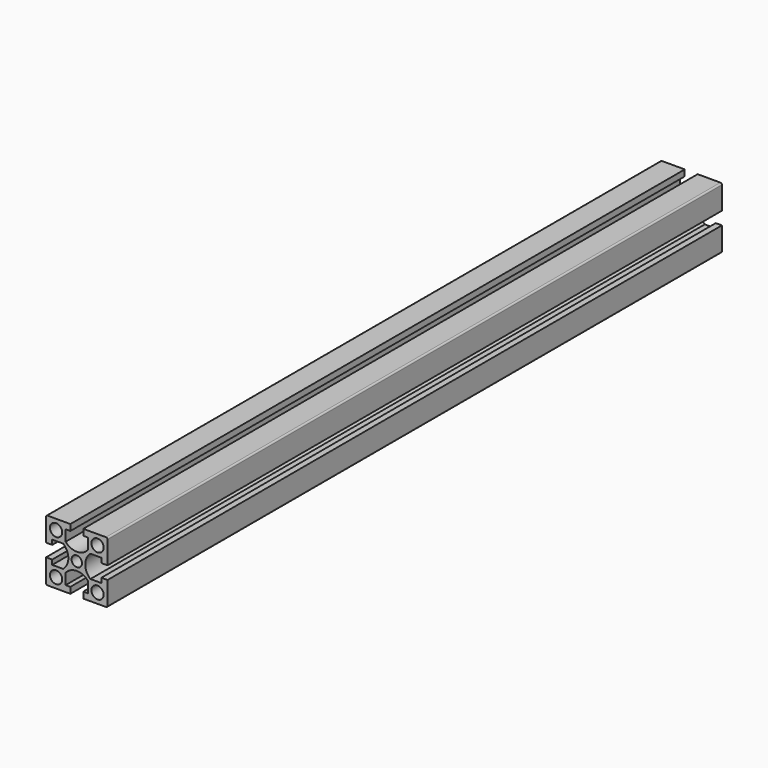
from build123d import *

# Parameters (mm, degrees)
F1_W          = 40
F1_H          = 40
F2_DEPTH      = 250
F3_R          = 4
F3_R_2        = 3.4
F4_DEPTH      = 250.001
F4_DEPTH_BACK = 250.001
F6_DEPTH      = 250.001
F6_DEPTH_BACK = 250.001
F7_R          = 1


with BuildPart() as f2:
    # F1 (on Front) → F2 (new body, symmetric)
    with BuildSketch(Plane.XZ):
        Rectangle(F1_W, F1_H)
    extrude(amount=F2_DEPTH, both=True)

    # F3 (on Front) → F4 (cut, two sides)
    with BuildSketch(Plane.XZ) as f4_sk:
        with Locations((-13.5, 13.5)):
            Circle(F3_R)
        with Locations((-13.5, -13.5)):
            Circle(F3_R)
        with Locations((13.5, -13.5)):
            Circle(F3_R)
        with Locations((13.5, 13.5)):
            Circle(F3_R)
        Circle(F3_R_2)
    extrude(amount=-F4_DEPTH, mode=Mode.SUBTRACT)
    extrude(f4_sk.sketch, amount=F4_DEPTH_BACK, mode=Mode.SUBTRACT)

    # F5 (on Front) → F6 (cut, two sides)
    with BuildSketch(Plane.XZ) as f6_sk:
        with BuildLine():
            Line((4.2, 20), (-4.2, 20))
            Line((-4.2, 20), (-4.2, 16))
            Line((-4.2, 16), (-7.25, 16))
            Line((-7.25, 16), (-7.25, 8.8609854211))
            ThreePointArc((-7.25, 8.8609854211), (0, 5.5), (7.25, 8.8609854211))
            Line((7.25, 8.8609854211), (7.25, 16))
            Line((7.25, 16), (4.2, 16))
            Line((4.2, 16), (4.2, 20))
        make_face()
        with BuildLine():
            Line((-16, 7.25), (-16, 4.2))
            Line((-16, 4.2), (-20, 4.2))
            Line((-20, 4.2), (-20, -4.2))
            Line((-20, -4.2), (-16, -4.2))
            Line((-16, -4.2), (-16, -7.25))
            Line((-16, -7.25), (-8.8609854211, -7.25))
            ThreePointArc((-8.8609854211, -7.25), (-5.5, 0), (-8.8609854211, 7.25))
            Line((-8.8609854211, 7.25), (-16, 7.25))
        make_face()
        with BuildLine():
            Line((-7.25, -16), (-4.2, -16))
            Line((-4.2, -16), (-4.2, -20))
            Line((-4.2, -20), (4.2, -20))
            Line((4.2, -20), (4.2, -16))
            Line((4.2, -16), (7.25, -16))
            Line((7.25, -16), (7.25, -8.8609854211))
            ThreePointArc((7.25, -8.8609854211), (0, -5.5), (-7.25, -8.8609854211))
            Line((-7.25, -8.8609854211), (-7.25, -16))
        make_face()
        with BuildLine():
            Line((16, -7.25), (16, -4.2))
            Line((16, -4.2), (20, -4.2))
            Line((20, -4.2), (20, 4.2))
            Line((20, 4.2), (16, 4.2))
            Line((16, 4.2), (16, 7.25))
            Line((16, 7.25), (8.8609854211, 7.25))
            ThreePointArc((8.8609854211, 7.25), (5.5, 0), (8.8609854211, -7.25))
            Line((8.8609854211, -7.25), (16, -7.25))
        make_face()
    extrude(amount=-F6_DEPTH, mode=Mode.SUBTRACT)
    extrude(f6_sk.sketch, amount=F6_DEPTH_BACK, mode=Mode.SUBTRACT)

    # F7
    f7_edges = [f2.edges().sort_by_distance(p)[0] for p in [
        (-20, 0, 20),
        (20, 0, 20),
        (20, 0, -20),
        (-20, 0, -20),
    ]]
    fillet(f7_edges, radius=F7_R)


solid = f2.part
